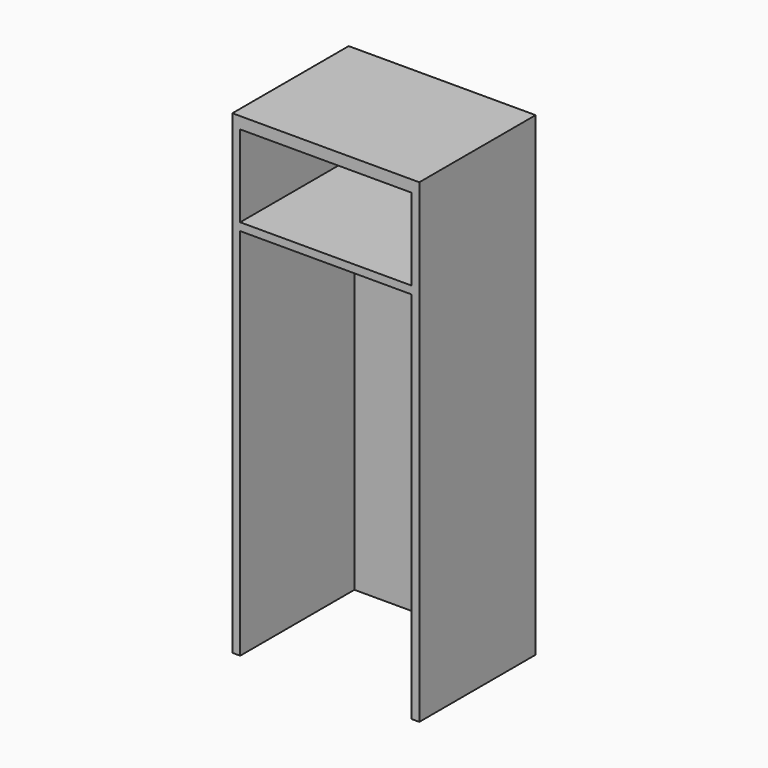
from build123d import *

# Parameters (mm, degrees)
F0_W     = 711.2
F0_H     = 2324.1
F1_DEPTH = 914.4
F2_W     = 838.2
F2_H     = 1828.8
F2_H_2   = 400.05
F3_DEPTH = 698.5


with BuildPart() as f1:
    # F0 (on Right) → F1 (new body)
    with BuildSketch(Plane.YZ):
        with Locations((-355.6, 1162.05)):
            Rectangle(F0_W, F0_H)
    extrude(amount=F1_DEPTH)

    # F2 (on face) → F3 (cut)
    with BuildSketch(Plane.XZ.offset(711.2)):
        with Locations((457.2, 914.4)):
            Rectangle(F2_W, F2_H)
        with Locations((457.2, 2066.925)):
            Rectangle(F2_W, F2_H_2)
    extrude(amount=-F3_DEPTH, mode=Mode.SUBTRACT)


solid = f1.part
